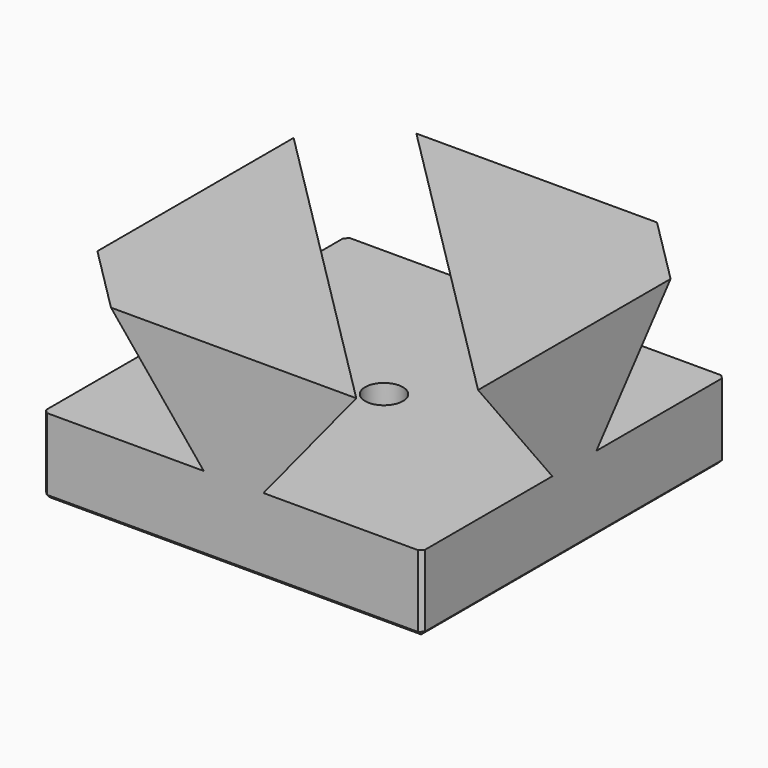
from build123d import *

# Parameters (mm, degrees)
F0_W      = 50
F0_H      = 50
F1_DEPTH  = 25
F4_DEPTH  = 70.711678
F5_W      = 50
F5_H      = 50
F6_DEPTH  = 25
F9_SIZE   = 0.5
F11_R     = 2.5
F12_DEPTH = 3


with BuildPart() as f1:
    # F0 (on Top) → F1 (new body)
    with BuildSketch(Plane.XY):
        Rectangle(F0_W, F0_H)
    extrude(amount=F1_DEPTH)

    # F3 (on face) → F4 (cut, through all)
    with BuildSketch(Plane(origin=(25, -25, 0), x_dir=(-0.707107, -0.707107, 0), z_dir=(-0.707107, 0.707107, 0))):
        Polygon((35.355339, 25), (29.015593, 25), (20.355339, 10), (35.355339, 10), align=None)
        Polygon((-20.355339, 10), (-29.015593, 25), (-35.355339, 25), (-35.355339, 10), align=None)
        Polygon((6.122772, 25), (0, 25), (-6.55672, 25), (-15.216974, 10), (14.783026, 10), align=None)
    extrude(amount=F4_DEPTH, mode=Mode.SUBTRACT)

    # F9
    f9_edges = [f1.edges().sort_by_distance(p)[0] for p in [
        (-25, 25, 5),
        (25, 25, 5),
        (25, -25, 5),
        (-25, -25, 5),
        (0, -25, 0),
        (25, 0, 0),
        (0, 25, 0),
        (-25, 0, 0),
    ]]
    chamfer(f9_edges, length=F9_SIZE)

    # F11 (on face) → F12 (cut)
    with BuildSketch(Plane.XY.offset(10)):
        Circle(F11_R)
    extrude(amount=-F12_DEPTH, mode=Mode.SUBTRACT)


with BuildPart() as f6:
    # F5 (on face) → F6 (new body)
    with BuildSketch(Plane.XY.offset(10)):
        Rectangle(F5_W, F5_H)
    extrude(amount=F6_DEPTH)

    # F7: cut F1
    add(f1.part, mode=Mode.SUBTRACT)


with BuildPart() as f6_1:
    # F8: moved
    add(f6.part.moved(Location((55, 0, 0))))


solid = f1.part
